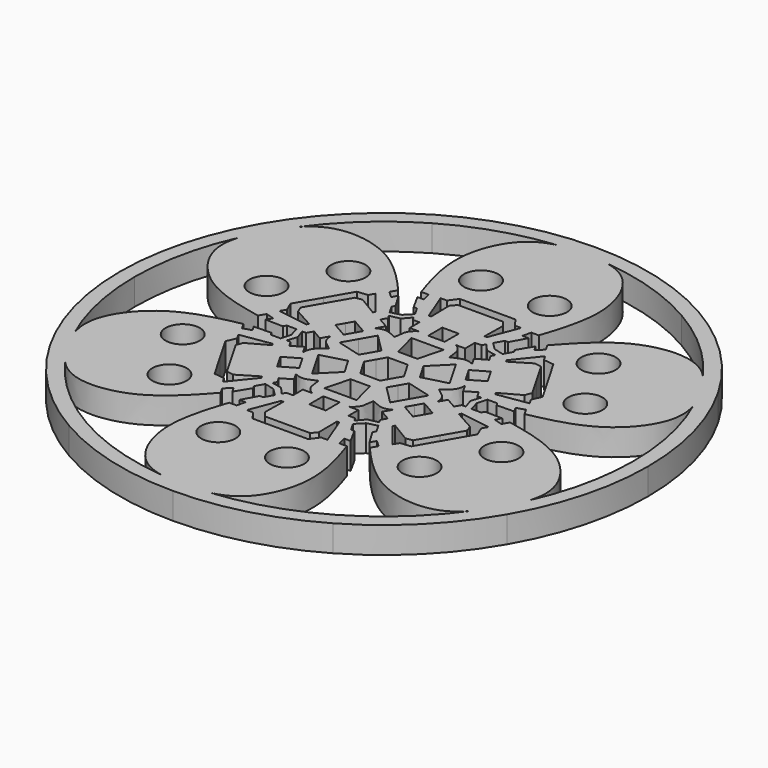
from build123d import *

# Parameters (mm, degrees)
F0_R     = 3.25
F1_DEPTH = 5


with BuildPart() as f1:
    # F0 (on Top) → F1 (new body)
    with BuildSketch(Plane.XY):
        with BuildLine():
            Line((-2.8284731594, 1.63301974), (-1.8856487729, 3.2660394799))
            Line((-1.8856487729, 3.2660394799), (-5.1945881986, 8.9972906844))
            add(Edge.make_bspline(
                [(-9.1760157715, 9.3916558278), (-8.3909486017, 9.7959865179), (-7.2136640018, 9.9123263657), (-6.7346666693, 9.6241857228), (-5.1945881986, 8.9972906844)],
                knots=[0, 0, 0, 0, 0.4623830177, 1, 1, 1, 1], degree=3))
            Line((-9.1760157715, 9.3916558278), (-8.322397281, 10.8701664236))
            Line((-8.322397281, 10.8701664236), (-10.3343345898, 12.0317589705))
            Line((-10.3343345898, 12.0317589705), (-9.7088618412, 13.1151095499))
            Line((-9.7088618412, 13.1151095499), (-10.0906916149, 13.7764581178))
            Line((-10.0906916149, 13.7764581178), (-8.1764468923, 14.1620214428))
            Line((-8.1764468923, 14.1620214428), (-8.7787605006, 15.2052592144))
            Line((-8.7787605006, 15.2052592144), (-10.6856256453, 14.7072889701))
            Line((-10.6856256453, 14.7072889701), (-11.611989412, 16.3117980803))
            Line((-11.611989412, 16.3117980803), (-11.2927966184, 16.8646562161))
            Line((-11.2927966184, 16.8646562161), (-12.9927846127, 19.6728621478))
            Line((-12.9927846127, 19.6728621478), (-13.5853280514, 18.6465468062))
            Line((-13.5853280514, 18.6465468062), (-14.8184367556, 19.7962224051))
            Line((-14.8184367556, 19.7962224051), (-14.1167527165, 21.0115748116))
            add(Edge.make_bspline(
                [(-38.372478876, 27.5701897873), (-37.0601706392, 29.0091253501), (-33.0553443053, 31.6879255757), (-22.5349836575, 30.2353247116), (-16.853957635, 24.1084227897), (-14.1167527165, 21.0115748116)],
                knots=[0.1329530314, 0.1329530314, 0.1329530314, 0.1329530314, 0.3172319255, 0.6444415671, 1, 1, 1, 1], degree=3))
            ThreePointArc((-38.372478876, 27.5701897873), (-39.6951325905, 25.6292596191), (-40.9197003288, 23.625))
            Line((-40.9197003288, 23.625), (-21.2544101512, 12.2712394223))
            Line((-21.2544101512, 12.2712394223), (-18.6194448022, 16.8351332829))
            Line((-18.6194448022, 16.8351332829), (-16.651455194, 17.0546335784))
            Line((-16.651455194, 17.0546335784), (-16.0579272707, 18.0826540974))
            Line((-16.0579272707, 18.0826540974), (-12.3928001012, 13.5297433629))
            Line((-12.3928001012, 13.5297433629), (-12.6234894014, 13.1301777742))
            Line((-12.6234894014, 13.1301777742), (-16.3265375233, 15.353790722))
            Line((-16.3265375233, 15.353790722), (-17.6351973736, 15.1412690684))
            Line((-17.6351973736, 15.1412690684), (-19.7827598596, 11.4215817302))
            Line((-19.7827598596, 11.4215817302), (-13.6402987642, 7.8752301633))
            Line((-13.6402987642, 7.8752301633), (-12.8586807055, 9.2290323531))
            Line((-12.8586807055, 9.2290323531), (-9.9832213791, 7.5688851369))
            Line((-9.9832213791, 7.5688851369), (-10.7648394377, 6.2150829472))
            Line((-10.7648394377, 6.2150829472), (-8.9216007261, 5.1508885808))
            Line((-8.9216007261, 5.1508885808), (-7.3966080897, 7.7922533083))
            Line((-7.3966080897, 7.7922533083), (-3.9729260116, 4.3778470382))
            Line((-3.9729260116, 4.3778470382), (-4.8753578831, 2.8147891862))
            Line((-4.8753578831, 2.8147891862), (-2.8284731594, 1.63301974))
        make_face()
        with Locations((-23.6899121028, 21.1874920874)):
            Circle(F0_R, mode=Mode.SUBTRACT)
        with BuildLine():
            Line((-3.7712975458, 0), (-2.8284731594, 1.63301974))
            Line((-2.8284731594, 1.63301974), (-4.8753578831, 2.8147891862))
            Line((-4.8753578831, 2.8147891862), (-5.7777897547, 1.2517313343))
            Line((-5.7777897547, 1.2517313343), (-10.4465933625, 2.5095238534))
            Line((-10.4465933625, 2.5095238534), (-8.9216007261, 5.1508885808))
            Line((-8.9216007261, 5.1508885808), (-10.7648394377, 6.2150829472))
            Line((-10.7648394377, 6.2150829472), (-11.5464574964, 4.8612807574))
            Line((-11.5464574964, 4.8612807574), (-14.4219168229, 6.5214279736))
            Line((-14.4219168229, 6.5214279736), (-13.6402987642, 7.8752301633))
            Line((-13.6402987642, 7.8752301633), (-19.7827598596, 11.4215817302))
            Line((-19.7827598596, 11.4215817302), (-21.9303223456, 7.7018943921))
            Line((-21.9303223456, 7.7018943921), (-21.4600415713, 6.46230089))
            Line((-21.4600415713, 6.46230089), (-17.6828122093, 4.3671736189))
            Line((-17.6828122093, 4.3671736189), (-17.9135015096, 3.9676080302))
            Line((-17.9135015096, 3.9676080302), (-23.6890014515, 4.8652458998))
            Line((-23.6890014515, 4.8652458998), (-23.0954735282, 5.8932664188))
            Line((-23.0954735282, 5.8932664188), (-23.8893755002, 7.7073455616))
            Line((-23.8893755002, 7.7073455616), (-21.2544101512, 12.2712394223))
            Line((-21.2544101512, 12.2712394223), (-40.9197003288, 23.625))
            ThreePointArc((-40.9197003288, 23.625), (-42.0431562056, 21.5623634204), (-43.062724181, 19.4464466192))
            add(Edge.make_bspline(
                [(-43.062724181, 19.4464466192), (-43.6527248144, 17.590486567), (-43.9702206944, 12.7828051114), (-37.4520511206, 4.3982059654), (-29.3054853985, 2.5417440713), (-25.2549339187, 1.7196790657)],
                knots=[0.1329530314, 0.1329530314, 0.1329530314, 0.1329530314, 0.3172319255, 0.6444415671, 1, 1, 1, 1], degree=3))
            Line((-25.2549339187, 1.7196790657), (-24.5532498796, 2.9350314722))
            Line((-24.5532498796, 2.9350314722), (-22.9410472527, 2.4419658082))
            Line((-22.9410472527, 2.4419658082), (-23.5335906915, 1.4156504666))
            Line((-23.5335906915, 1.4156504666), (-20.2516190185, 1.3475206433))
            Line((-20.2516190185, 1.3475206433), (-19.9324262249, 1.9003787791))
            Line((-19.9324262249, 1.9003787791), (-18.0796986916, 1.9003787791))
            Line((-18.0796986916, 1.9003787791), (-17.5575210011, 0))
            Line((-17.5575210011, 0), (-16.3528937846, 0))
            Line((-16.3528937846, 0), (-16.9761085117, 1.8505662214))
            Line((-16.9761085117, 1.8505662214), (-16.2124489642, 1.8505662214))
            Line((-16.2124489642, 1.8505662214), (-15.5869762155, 2.9339168008))
            Line((-15.5869762155, 2.9339168008), (-13.5750389067, 1.7723242539))
            Line((-13.5750389067, 1.7723242539), (-12.7214204162, 3.2508348498))
            add(Edge.make_bspline(
                [(-12.7214204162, 3.2508348498), (-12.6790474805, 2.368781392), (-12.1911584442, 1.291053097), (-11.7021226614, 1.0202995603), (-10.3891763972, 0)],
                knots=[0, 0, 0, 0, 0.4623830177, 1, 1, 1, 1], degree=3))
            Line((-10.3891763972, 0), (-3.7712975458, 0))
        make_face()
        with Locations((-30.1938624416, 9.9223196507)):
            Circle(F0_R, mode=Mode.SUBTRACT)
        with BuildLine():
            Line((-50, 0), (-47.25, 0))
            ThreePointArc((-47.25, 0), (-46.1913207083, 9.9460741614), (-43.062724181, 19.4464466192))
            add(Edge.make_bspline(
                [(-41.0672978425, 23.7102154642), (-41.963809358, 22.1889803499), (-42.637052141, 20.785479591), (-43.062724181, 19.4464466192)],
                knots=[0, 0, 0, 0, 0.1329530314, 0.1329530314, 0.1329530314, 0.1329530314], degree=3))
            Line((-41.0672978425, 23.7102154642), (-43.3012701892, 25))
            ThreePointArc((-43.3012701892, 25), (-48.2962913145, 12.9409522551), (-50, 0))
        make_face()
        with BuildLine():
            add(Edge.make_bspline(
                [(-41.0672978425, 23.7102154642), (-41.963809358, 22.1889803499), (-42.637052141, 20.785479591), (-43.062724181, 19.4464466192)],
                knots=[0, 0, 0, 0, 0.1329530314, 0.1329530314, 0.1329530314, 0.1329530314], degree=3))
            ThreePointArc((-43.062724181, 19.4464466192), (-42.0431562056, 21.5623634204), (-40.9197003288, 23.625))
            Line((-40.9197003288, 23.625), (-41.0672978425, 23.7102154642))
        make_face()
        with BuildLine():
            ThreePointArc((-40.9197003288, 23.625), (-39.6951325905, 25.6292596191), (-38.372478876, 27.5701897873))
            add(Edge.make_bspline(
                [(-41.0672978425, 23.7102154642), (-40.198125346, 25.2472347687), (-39.3192794261, 26.5320305011), (-38.372478876, 27.5701897873)],
                knots=[0, 0, 0, 0, 0.1329530314, 0.1329530314, 0.1329530314, 0.1329530314], degree=3))
            Line((-41.0672978425, 23.7102154642), (-40.9197003288, 23.625))
        make_face()
        with BuildLine():
            ThreePointArc((-38.372478876, 27.5701897873), (-31.7092132458, 35.029820087), (-23.625, 40.9197003288))
            Line((-23.625, 40.9197003288), (-25, 43.3012701892))
            ThreePointArc((-25, 43.3012701892), (-35.3553390593, 35.3553390593), (-43.3012701892, 25))
            Line((-43.3012701892, 25), (-41.0672978425, 23.7102154642))
            add(Edge.make_bspline(
                [(-41.0672978425, 23.7102154642), (-40.198125346, 25.2472347687), (-39.3192794261, 26.5320305011), (-38.372478876, 27.5701897873)],
                knots=[0, 0, 0, 0, 0.1329530314, 0.1329530314, 0.1329530314, 0.1329530314], degree=3))
        make_face()
        with BuildLine():
            Line((-1.8856487729, 3.2660394799), (0, 3.2660394799))
            Line((0, 3.2660394799), (0, 5.6295783725))
            Line((0, 5.6295783725), (-1.8048637432, 5.6295783725))
            Line((-1.8048637432, 5.6295783725), (-3.0499852728, 10.3017771617))
            Line((-3.0499852728, 10.3017771617), (0, 10.3017771617))
            Line((0, 10.3017771617), (0, 12.4301658943))
            Line((0, 12.4301658943), (-1.5632361174, 12.4301658943))
            Line((-1.5632361174, 12.4301658943), (-1.5632361174, 15.7504603267))
            Line((-1.5632361174, 15.7504603267), (0, 15.7504603267))
            Line((0, 15.7504603267), (0, 22.8431634605))
            Line((0, 22.8431634605), (-4.295124972, 22.8431634605))
            Line((-4.295124972, 22.8431634605), (-5.133504048, 21.816091612))
            Line((-5.133504048, 21.816091612), (-5.0593228079, 17.4973513931))
            Line((-5.0593228079, 17.4973513931), (-5.5207014084, 17.4973513931))
            Line((-5.5207014084, 17.4973513931), (-7.6310741809, 22.9478999972))
            Line((-7.6310741809, 22.9478999972), (-6.4440183342, 22.9478999972))
            Line((-6.4440183342, 22.9478999972), (-5.269930698, 24.5424788445))
            Line((-5.269930698, 24.5424788445), (0, 24.5424788445))
            Line((0, 24.5424788445), (0, 47.25))
            ThreePointArc((0, 47.25), (-2.3480236151, 47.1916230395), (-4.690245305, 47.0166364065))
            add(Edge.make_bspline(
                [(-4.690245305, 47.0166364065), (-6.5925541752, 46.5996119172), (-10.9148763891, 44.470730687), (-14.9170674632, 34.633530677), (-12.4515277636, 26.650166861), (-11.1381812021, 22.7312538773)],
                knots=[0.1329530314, 0.1329530314, 0.1329530314, 0.1329530314, 0.3172319255, 0.6444415671, 1, 1, 1, 1], degree=3))
            Line((-11.1381812021, 22.7312538773), (-9.7348131239, 22.7312538773))
            Line((-9.7348131239, 22.7312538773), (-9.3557192013, 21.0885126144))
            Line((-9.3557192013, 21.0885126144), (-10.5408060788, 21.0885126144))
            Line((-10.5408060788, 21.0885126144), (-8.9588224, 18.2121768594))
            Line((-8.9588224, 18.2121768594), (-8.3204368129, 18.2121768594))
            Line((-8.3204368129, 18.2121768594), (-7.3940730463, 16.6076677492))
            Line((-7.3940730463, 16.6076677492), (-8.7787605006, 15.2052592144))
            Line((-8.7787605006, 15.2052592144), (-8.1764468923, 14.1620214428))
            Line((-8.1764468923, 14.1620214428), (-6.8854168967, 15.6270243392))
            Line((-6.8854168967, 15.6270243392), (-6.503587123, 14.9656757712))
            Line((-6.503587123, 14.9656757712), (-5.2526416257, 14.9656757712))
            Line((-5.2526416257, 14.9656757712), (-5.2526416257, 12.6424906775))
            Line((-5.2526416257, 12.6424906775), (-3.5454046447, 12.6424906775))
            add(Edge.make_bspline(
                [(-3.5454046447, 12.6424906775), (-4.2880988788, 12.1647679098), (-4.9774944424, 11.2033794628), (-4.967455992, 10.6444852831), (-5.1945881986, 8.9972906844)],
                knots=[0, 0, 0, 0, 0.4623830177, 1, 1, 1, 1], degree=3))
            Line((-5.1945881986, 8.9972906844), (-1.8856487729, 3.2660394799))
        make_face()
        with Locations((-6.5039503388, 31.1098117381)):
            Circle(F0_R, mode=Mode.SUBTRACT)
        with BuildLine():
            Line((0, 5.6295783725), (0, 3.2660394799))
            Line((0, 3.2660394799), (1.8856487729, 3.2660394799))
            Line((1.8856487729, 3.2660394799), (5.1945881986, 8.9972906844))
            add(Edge.make_bspline(
                [(3.5454046447, 12.6424906775), (4.2880988788, 12.1647679098), (4.9774944424, 11.2033794628), (4.967455992, 10.6444852831), (5.1945881986, 8.9972906844)],
                knots=[0, 0, 0, 0, 0.4623830177, 1, 1, 1, 1], degree=3))
            Line((3.5454046447, 12.6424906775), (5.2526416257, 12.6424906775))
            Line((5.2526416257, 12.6424906775), (5.2526416257, 14.9656757712))
            Line((5.2526416257, 14.9656757712), (6.503587123, 14.9656757712))
            Line((6.503587123, 14.9656757712), (6.8854168967, 15.6270243392))
            Line((6.8854168967, 15.6270243392), (8.1764468923, 14.1620214428))
            Line((8.1764468923, 14.1620214428), (8.7787605006, 15.2052592144))
            Line((8.7787605006, 15.2052592144), (7.3940730463, 16.6076677492))
            Line((7.3940730463, 16.6076677492), (8.3204368129, 18.2121768594))
            Line((8.3204368129, 18.2121768594), (8.9588224, 18.2121768594))
            Line((8.9588224, 18.2121768594), (10.5408060788, 21.0885126144))
            Line((10.5408060788, 21.0885126144), (9.3557192013, 21.0885126144))
            Line((9.3557192013, 21.0885126144), (9.7348131239, 22.7312538773))
            Line((9.7348131239, 22.7312538773), (11.1381812021, 22.7312538773))
            add(Edge.make_bspline(
                [(4.690245305, 47.0166364065), (6.5925541752, 46.5996119172), (10.9148763891, 44.470730687), (14.9170674632, 34.633530677), (12.4515277636, 26.650166861), (11.1381812021, 22.7312538773)],
                knots=[0.1329530314, 0.1329530314, 0.1329530314, 0.1329530314, 0.3172319255, 0.6444415671, 1, 1, 1, 1], degree=3))
            ThreePointArc((4.690245305, 47.0166364065), (2.3480236151, 47.1916230395), (0, 47.25))
            Line((0, 47.25), (0, 24.5424788445))
            Line((0, 24.5424788445), (5.269930698, 24.5424788445))
            Line((5.269930698, 24.5424788445), (6.4440183342, 22.9478999972))
            Line((6.4440183342, 22.9478999972), (7.6310741809, 22.9478999972))
            Line((7.6310741809, 22.9478999972), (5.5207014084, 17.4973513931))
            Line((5.5207014084, 17.4973513931), (5.0593228079, 17.4973513931))
            Line((5.0593228079, 17.4973513931), (5.133504048, 21.816091612))
            Line((5.133504048, 21.816091612), (4.295124972, 22.8431634605))
            Line((4.295124972, 22.8431634605), (0, 22.8431634605))
            Line((0, 22.8431634605), (0, 15.7504603267))
            Line((0, 15.7504603267), (1.5632361174, 15.7504603267))
            Line((1.5632361174, 15.7504603267), (1.5632361174, 12.4301658943))
            Line((1.5632361174, 12.4301658943), (0, 12.4301658943))
            Line((0, 12.4301658943), (0, 10.3017771617))
            Line((0, 10.3017771617), (3.0499852728, 10.3017771617))
            Line((3.0499852728, 10.3017771617), (1.8048637432, 5.6295783725))
            Line((1.8048637432, 5.6295783725), (0, 5.6295783725))
        make_face()
        with Locations((6.5039503388, 31.1098117381)):
            Circle(F0_R, mode=Mode.SUBTRACT)
        with BuildLine():
            Line((1.8856487729, 3.2660394799), (2.8284731594, 1.63301974))
            Line((2.8284731594, 1.63301974), (4.8753578831, 2.8147891862))
            Line((4.8753578831, 2.8147891862), (3.9729260116, 4.3778470382))
            Line((3.9729260116, 4.3778470382), (7.3966080897, 7.7922533083))
            Line((7.3966080897, 7.7922533083), (8.9216007261, 5.1508885808))
            Line((8.9216007261, 5.1508885808), (10.7648394377, 6.2150829472))
            Line((10.7648394377, 6.2150829472), (9.9832213791, 7.5688851369))
            Line((9.9832213791, 7.5688851369), (12.8586807055, 9.2290323531))
            Line((12.8586807055, 9.2290323531), (13.6402987642, 7.8752301633))
            Line((13.6402987642, 7.8752301633), (19.7827598596, 11.4215817302))
            Line((19.7827598596, 11.4215817302), (17.6351973736, 15.1412690684))
            Line((17.6351973736, 15.1412690684), (16.3265375233, 15.353790722))
            Line((16.3265375233, 15.353790722), (12.6234894014, 13.1301777742))
            Line((12.6234894014, 13.1301777742), (12.3928001012, 13.5297433629))
            Line((12.3928001012, 13.5297433629), (16.0579272707, 18.0826540974))
            Line((16.0579272707, 18.0826540974), (16.651455194, 17.0546335784))
            Line((16.651455194, 17.0546335784), (18.6194448022, 16.8351332829))
            Line((18.6194448022, 16.8351332829), (21.2544101512, 12.2712394223))
            Line((21.2544101512, 12.2712394223), (40.9197003288, 23.625))
            ThreePointArc((40.9197003288, 23.625), (39.6951325905, 25.6292596191), (38.372478876, 27.5701897873))
            add(Edge.make_bspline(
                [(38.372478876, 27.5701897873), (37.0601706392, 29.0091253501), (33.0553443053, 31.6879255757), (22.5349836575, 30.2353247116), (16.853957635, 24.1084227897), (14.1167527165, 21.0115748116)],
                knots=[0.1329530314, 0.1329530314, 0.1329530314, 0.1329530314, 0.3172319255, 0.6444415671, 1, 1, 1, 1], degree=3))
            Line((14.1167527165, 21.0115748116), (14.8184367556, 19.7962224051))
            Line((14.8184367556, 19.7962224051), (13.5853280514, 18.6465468062))
            Line((13.5853280514, 18.6465468062), (12.9927846127, 19.6728621478))
            Line((12.9927846127, 19.6728621478), (11.2927966184, 16.8646562161))
            Line((11.2927966184, 16.8646562161), (11.611989412, 16.3117980803))
            Line((11.611989412, 16.3117980803), (10.6856256453, 14.7072889701))
            Line((10.6856256453, 14.7072889701), (8.7787605006, 15.2052592144))
            Line((8.7787605006, 15.2052592144), (8.1764468923, 14.1620214428))
            Line((8.1764468923, 14.1620214428), (10.0906916149, 13.7764581178))
            Line((10.0906916149, 13.7764581178), (9.7088618412, 13.1151095499))
            Line((9.7088618412, 13.1151095499), (10.3343345898, 12.0317589705))
            Line((10.3343345898, 12.0317589705), (8.322397281, 10.8701664236))
            Line((8.322397281, 10.8701664236), (9.1760157715, 9.3916558278))
            add(Edge.make_bspline(
                [(9.1760157715, 9.3916558278), (8.3909486017, 9.7959865179), (7.2136640018, 9.9123263657), (6.7346666693, 9.6241857228), (5.1945881986, 8.9972906844)],
                knots=[0, 0, 0, 0, 0.4623830177, 1, 1, 1, 1], degree=3))
            Line((5.1945881986, 8.9972906844), (1.8856487729, 3.2660394799))
        make_face()
        with Locations((23.6899121028, 21.1874920874)):
            Circle(F0_R, mode=Mode.SUBTRACT)
        with BuildLine():
            Line((2.8284731594, 1.63301974), (3.7712975458, 0))
            Line((3.7712975458, 0), (10.3891763972, 0))
            add(Edge.make_bspline(
                [(12.7214204162, 3.2508348498), (12.6790474805, 2.368781392), (12.1911584442, 1.291053097), (11.7021226614, 1.0202995603), (10.3891763972, 0)],
                knots=[0, 0, 0, 0, 0.4623830177, 1, 1, 1, 1], degree=3))
            Line((12.7214204162, 3.2508348498), (13.5750389067, 1.7723242539))
            Line((13.5750389067, 1.7723242539), (15.5869762155, 2.9339168008))
            Line((15.5869762155, 2.9339168008), (16.2124489642, 1.8505662214))
            Line((16.2124489642, 1.8505662214), (16.9761085117, 1.8505662214))
            Line((16.9761085117, 1.8505662214), (16.3528937846, 0))
            Line((16.3528937846, 0), (17.5575210011, 0))
            Line((17.5575210011, 0), (18.0796986916, 1.9003787791))
            Line((18.0796986916, 1.9003787791), (19.9324262249, 1.9003787791))
            Line((19.9324262249, 1.9003787791), (20.2516190185, 1.3475206433))
            Line((20.2516190185, 1.3475206433), (23.5335906915, 1.4156504666))
            Line((23.5335906915, 1.4156504666), (22.9410472527, 2.4419658082))
            Line((22.9410472527, 2.4419658082), (24.5532498796, 2.9350314722))
            Line((24.5532498796, 2.9350314722), (25.2549339187, 1.7196790657))
            add(Edge.make_bspline(
                [(43.062724181, 19.4464466192), (43.6527248144, 17.590486567), (43.9702206944, 12.7828051114), (37.4520511206, 4.3982059654), (29.3054853985, 2.5417440713), (25.2549339187, 1.7196790657)],
                knots=[0.1329530314, 0.1329530314, 0.1329530314, 0.1329530314, 0.3172319255, 0.6444415671, 1, 1, 1, 1], degree=3))
            ThreePointArc((43.062724181, 19.4464466192), (42.0431562056, 21.5623634204), (40.9197003288, 23.625))
            Line((40.9197003288, 23.625), (21.2544101512, 12.2712394223))
            Line((21.2544101512, 12.2712394223), (23.8893755002, 7.7073455616))
            Line((23.8893755002, 7.7073455616), (23.0954735282, 5.8932664188))
            Line((23.0954735282, 5.8932664188), (23.6890014515, 4.8652458998))
            Line((23.6890014515, 4.8652458998), (17.9135015096, 3.9676080302))
            Line((17.9135015096, 3.9676080302), (17.6828122093, 4.3671736189))
            Line((17.6828122093, 4.3671736189), (21.4600415713, 6.46230089))
            Line((21.4600415713, 6.46230089), (21.9303223456, 7.7018943921))
            Line((21.9303223456, 7.7018943921), (19.7827598596, 11.4215817302))
            Line((19.7827598596, 11.4215817302), (13.6402987642, 7.8752301633))
            Line((13.6402987642, 7.8752301633), (14.4219168229, 6.5214279736))
            Line((14.4219168229, 6.5214279736), (11.5464574964, 4.8612807574))
            Line((11.5464574964, 4.8612807574), (10.7648394377, 6.2150829472))
            Line((10.7648394377, 6.2150829472), (8.9216007261, 5.1508885808))
            Line((8.9216007261, 5.1508885808), (10.4465933625, 2.5095238534))
            Line((10.4465933625, 2.5095238534), (5.7777897547, 1.2517313343))
            Line((5.7777897547, 1.2517313343), (4.8753578831, 2.8147891862))
            Line((4.8753578831, 2.8147891862), (2.8284731594, 1.63301974))
        make_face()
        with Locations((30.1938624416, 9.9223196507)):
            Circle(F0_R, mode=Mode.SUBTRACT)
        with BuildLine():
            Line((3.7712975458, 0), (2.8284731594, -1.63301974))
            Line((2.8284731594, -1.63301974), (4.8753578831, -2.8147891862))
            Line((4.8753578831, -2.8147891862), (5.7777897547, -1.2517313343))
            Line((5.7777897547, -1.2517313343), (10.4465933625, -2.5095238534))
            Line((10.4465933625, -2.5095238534), (8.9216007261, -5.1508885808))
            Line((8.9216007261, -5.1508885808), (10.7648394377, -6.2150829472))
            Line((10.7648394377, -6.2150829472), (11.5464574964, -4.8612807574))
            Line((11.5464574964, -4.8612807574), (14.4219168229, -6.5214279736))
            Line((14.4219168229, -6.5214279736), (13.6402987642, -7.8752301633))
            Line((13.6402987642, -7.8752301633), (19.7827598596, -11.4215817302))
            Line((19.7827598596, -11.4215817302), (21.9303223456, -7.7018943921))
            Line((21.9303223456, -7.7018943921), (21.4600415713, -6.46230089))
            Line((21.4600415713, -6.46230089), (17.6828122093, -4.3671736189))
            Line((17.6828122093, -4.3671736189), (17.9135015096, -3.9676080302))
            Line((17.9135015096, -3.9676080302), (23.6890014515, -4.8652458998))
            Line((23.6890014515, -4.8652458998), (23.0954735282, -5.8932664188))
            Line((23.0954735282, -5.8932664188), (23.8893755002, -7.7073455616))
            Line((23.8893755002, -7.7073455616), (21.2544101512, -12.2712394223))
            Line((21.2544101512, -12.2712394223), (40.9197003288, -23.625))
            ThreePointArc((40.9197003288, -23.625), (42.0431562056, -21.5623634204), (43.062724181, -19.4464466192))
            add(Edge.make_bspline(
                [(43.062724181, -19.4464466192), (43.6527248144, -17.590486567), (43.9702206944, -12.7828051114), (37.4520511206, -4.3982059654), (29.3054853985, -2.5417440713), (25.2549339187, -1.7196790657)],
                knots=[0.1329530314, 0.1329530314, 0.1329530314, 0.1329530314, 0.3172319255, 0.6444415671, 1, 1, 1, 1], degree=3))
            Line((25.2549339187, -1.7196790657), (24.5532498796, -2.9350314722))
            Line((24.5532498796, -2.9350314722), (22.9410472527, -2.4419658082))
            Line((22.9410472527, -2.4419658082), (23.5335906915, -1.4156504666))
            Line((23.5335906915, -1.4156504666), (20.2516190185, -1.3475206433))
            Line((20.2516190185, -1.3475206433), (19.9324262249, -1.9003787791))
            Line((19.9324262249, -1.9003787791), (18.0796986916, -1.9003787791))
            Line((18.0796986916, -1.9003787791), (17.5575210011, 0))
            Line((17.5575210011, 0), (16.3528937846, 0))
            Line((16.3528937846, 0), (16.9761085117, -1.8505662214))
            Line((16.9761085117, -1.8505662214), (16.2124489642, -1.8505662214))
            Line((16.2124489642, -1.8505662214), (15.5869762155, -2.9339168008))
            Line((15.5869762155, -2.9339168008), (13.5750389067, -1.7723242539))
            Line((13.5750389067, -1.7723242539), (12.7214204162, -3.2508348498))
            add(Edge.make_bspline(
                [(12.7214204162, -3.2508348498), (12.6790474805, -2.368781392), (12.1911584442, -1.291053097), (11.7021226614, -1.0202995603), (10.3891763972, 0)],
                knots=[0, 0, 0, 0, 0.4623830177, 1, 1, 1, 1], degree=3))
            Line((10.3891763972, 0), (3.7712975458, 0))
        make_face()
        with Locations((30.1938624416, -9.9223196507)):
            Circle(F0_R, mode=Mode.SUBTRACT)
        with BuildLine():
            Line((2.8284731594, -1.63301974), (1.8856487729, -3.2660394799))
            Line((1.8856487729, -3.2660394799), (5.1945881986, -8.9972906844))
            add(Edge.make_bspline(
                [(9.1760157715, -9.3916558278), (8.3909486017, -9.7959865179), (7.2136640018, -9.9123263657), (6.7346666693, -9.6241857228), (5.1945881986, -8.9972906844)],
                knots=[0, 0, 0, 0, 0.4623830177, 1, 1, 1, 1], degree=3))
            Line((9.1760157715, -9.3916558278), (8.322397281, -10.8701664236))
            Line((8.322397281, -10.8701664236), (10.3343345898, -12.0317589705))
            Line((10.3343345898, -12.0317589705), (9.7088618412, -13.1151095499))
            Line((9.7088618412, -13.1151095499), (10.0906916149, -13.7764581178))
            Line((10.0906916149, -13.7764581178), (8.1764468923, -14.1620214428))
            Line((8.1764468923, -14.1620214428), (8.7787605006, -15.2052592144))
            Line((8.7787605006, -15.2052592144), (10.6856256453, -14.7072889701))
            Line((10.6856256453, -14.7072889701), (11.611989412, -16.3117980803))
            Line((11.611989412, -16.3117980803), (11.2927966184, -16.8646562161))
            Line((11.2927966184, -16.8646562161), (12.9927846127, -19.6728621478))
            Line((12.9927846127, -19.6728621478), (13.5853280514, -18.6465468062))
            Line((13.5853280514, -18.6465468062), (14.8184367556, -19.7962224051))
            Line((14.8184367556, -19.7962224051), (14.1167527165, -21.0115748116))
            add(Edge.make_bspline(
                [(38.372478876, -27.5701897873), (37.0601706392, -29.0091253501), (33.0553443053, -31.6879255757), (22.5349836575, -30.2353247116), (16.853957635, -24.1084227897), (14.1167527165, -21.0115748116)],
                knots=[0.1329530314, 0.1329530314, 0.1329530314, 0.1329530314, 0.3172319255, 0.6444415671, 1, 1, 1, 1], degree=3))
            ThreePointArc((38.372478876, -27.5701897873), (39.6951325905, -25.6292596191), (40.9197003288, -23.625))
            Line((40.9197003288, -23.625), (21.2544101512, -12.2712394223))
            Line((21.2544101512, -12.2712394223), (18.6194448022, -16.8351332829))
            Line((18.6194448022, -16.8351332829), (16.651455194, -17.0546335784))
            Line((16.651455194, -17.0546335784), (16.0579272707, -18.0826540974))
            Line((16.0579272707, -18.0826540974), (12.3928001012, -13.5297433629))
            Line((12.3928001012, -13.5297433629), (12.6234894014, -13.1301777742))
            Line((12.6234894014, -13.1301777742), (16.3265375233, -15.353790722))
            Line((16.3265375233, -15.353790722), (17.6351973736, -15.1412690684))
            Line((17.6351973736, -15.1412690684), (19.7827598596, -11.4215817302))
            Line((19.7827598596, -11.4215817302), (13.6402987642, -7.8752301633))
            Line((13.6402987642, -7.8752301633), (12.8586807055, -9.2290323531))
            Line((12.8586807055, -9.2290323531), (9.9832213791, -7.5688851369))
            Line((9.9832213791, -7.5688851369), (10.7648394377, -6.2150829472))
            Line((10.7648394377, -6.2150829472), (8.9216007261, -5.1508885808))
            Line((8.9216007261, -5.1508885808), (7.3966080897, -7.7922533083))
            Line((7.3966080897, -7.7922533083), (3.9729260116, -4.3778470382))
            Line((3.9729260116, -4.3778470382), (4.8753578831, -2.8147891862))
            Line((4.8753578831, -2.8147891862), (2.8284731594, -1.63301974))
        make_face()
        with Locations((23.6899121028, -21.1874920874)):
            Circle(F0_R, mode=Mode.SUBTRACT)
        with BuildLine():
            Line((1.8856487729, -3.2660394799), (0, -3.2660394799))
            Line((0, -3.2660394799), (0, -5.6295783725))
            Line((0, -5.6295783725), (1.8048637432, -5.6295783725))
            Line((1.8048637432, -5.6295783725), (3.0499852728, -10.3017771617))
            Line((3.0499852728, -10.3017771617), (0, -10.3017771617))
            Line((0, -10.3017771617), (0, -12.4301658943))
            Line((0, -12.4301658943), (1.5632361174, -12.4301658943))
            Line((1.5632361174, -12.4301658943), (1.5632361174, -15.7504603267))
            Line((1.5632361174, -15.7504603267), (0, -15.7504603267))
            Line((0, -15.7504603267), (0, -22.8431634605))
            Line((0, -22.8431634605), (4.295124972, -22.8431634605))
            Line((4.295124972, -22.8431634605), (5.133504048, -21.816091612))
            Line((5.133504048, -21.816091612), (5.0593228079, -17.4973513931))
            Line((5.0593228079, -17.4973513931), (5.5207014084, -17.4973513931))
            Line((5.5207014084, -17.4973513931), (7.6310741809, -22.9478999972))
            Line((7.6310741809, -22.9478999972), (6.4440183342, -22.9478999972))
            Line((6.4440183342, -22.9478999972), (5.269930698, -24.5424788445))
            Line((5.269930698, -24.5424788445), (0, -24.5424788445))
            Line((0, -24.5424788445), (0, -47.25))
            ThreePointArc((0, -47.25), (2.3480236151, -47.1916230395), (4.690245305, -47.0166364065))
            add(Edge.make_bspline(
                [(4.690245305, -47.0166364065), (6.5925541752, -46.5996119172), (10.9148763891, -44.470730687), (14.9170674632, -34.633530677), (12.4515277636, -26.650166861), (11.1381812021, -22.7312538773)],
                knots=[0.1329530314, 0.1329530314, 0.1329530314, 0.1329530314, 0.3172319255, 0.6444415671, 1, 1, 1, 1], degree=3))
            Line((11.1381812021, -22.7312538773), (9.7348131239, -22.7312538773))
            Line((9.7348131239, -22.7312538773), (9.3557192013, -21.0885126144))
            Line((9.3557192013, -21.0885126144), (10.5408060788, -21.0885126144))
            Line((10.5408060788, -21.0885126144), (8.9588224, -18.2121768594))
            Line((8.9588224, -18.2121768594), (8.3204368129, -18.2121768594))
            Line((8.3204368129, -18.2121768594), (7.3940730463, -16.6076677492))
            Line((7.3940730463, -16.6076677492), (8.7787605006, -15.2052592144))
            Line((8.7787605006, -15.2052592144), (8.1764468923, -14.1620214428))
            Line((8.1764468923, -14.1620214428), (6.8854168967, -15.6270243392))
            Line((6.8854168967, -15.6270243392), (6.503587123, -14.9656757712))
            Line((6.503587123, -14.9656757712), (5.2526416257, -14.9656757712))
            Line((5.2526416257, -14.9656757712), (5.2526416257, -12.6424906775))
            Line((5.2526416257, -12.6424906775), (3.5454046447, -12.6424906775))
            add(Edge.make_bspline(
                [(3.5454046447, -12.6424906775), (4.2880988788, -12.1647679098), (4.9774944424, -11.2033794628), (4.967455992, -10.6444852831), (5.1945881986, -8.9972906844)],
                knots=[0, 0, 0, 0, 0.4623830177, 1, 1, 1, 1], degree=3))
            Line((5.1945881986, -8.9972906844), (1.8856487729, -3.2660394799))
        make_face()
        with Locations((6.5039503388, -31.1098117381)):
            Circle(F0_R, mode=Mode.SUBTRACT)
        with BuildLine():
            Line((0, -3.2660394799), (-1.8856487729, -3.2660394799))
            Line((-1.8856487729, -3.2660394799), (-5.1945881986, -8.9972906844))
            add(Edge.make_bspline(
                [(-3.5454046447, -12.6424906775), (-4.2880988788, -12.1647679098), (-4.9774944424, -11.2033794628), (-4.967455992, -10.6444852831), (-5.1945881986, -8.9972906844)],
                knots=[0, 0, 0, 0, 0.4623830177, 1, 1, 1, 1], degree=3))
            Line((-3.5454046447, -12.6424906775), (-5.2526416257, -12.6424906775))
            Line((-5.2526416257, -12.6424906775), (-5.2526416257, -14.9656757712))
            Line((-5.2526416257, -14.9656757712), (-6.503587123, -14.9656757712))
            Line((-6.503587123, -14.9656757712), (-6.8854168967, -15.6270243392))
            Line((-6.8854168967, -15.6270243392), (-8.1764468923, -14.1620214428))
            Line((-8.1764468923, -14.1620214428), (-8.7787605006, -15.2052592144))
            Line((-8.7787605006, -15.2052592144), (-7.3940730463, -16.6076677492))
            Line((-7.3940730463, -16.6076677492), (-8.3204368129, -18.2121768594))
            Line((-8.3204368129, -18.2121768594), (-8.9588224, -18.2121768594))
            Line((-8.9588224, -18.2121768594), (-10.5408060788, -21.0885126144))
            Line((-10.5408060788, -21.0885126144), (-9.3557192013, -21.0885126144))
            Line((-9.3557192013, -21.0885126144), (-9.7348131239, -22.7312538773))
            Line((-9.7348131239, -22.7312538773), (-11.1381812021, -22.7312538773))
            add(Edge.make_bspline(
                [(-4.690245305, -47.0166364065), (-6.5925541752, -46.5996119172), (-10.9148763891, -44.470730687), (-14.9170674632, -34.633530677), (-12.4515277636, -26.650166861), (-11.1381812021, -22.7312538773)],
                knots=[0.1329530314, 0.1329530314, 0.1329530314, 0.1329530314, 0.3172319255, 0.6444415671, 1, 1, 1, 1], degree=3))
            ThreePointArc((-4.690245305, -47.0166364065), (-2.3480236151, -47.1916230395), (0, -47.25))
            Line((0, -47.25), (0, -24.5424788445))
            Line((0, -24.5424788445), (-5.269930698, -24.5424788445))
            Line((-5.269930698, -24.5424788445), (-6.4440183342, -22.9478999972))
            Line((-6.4440183342, -22.9478999972), (-7.6310741809, -22.9478999972))
            Line((-7.6310741809, -22.9478999972), (-5.5207014084, -17.4973513931))
            Line((-5.5207014084, -17.4973513931), (-5.0593228079, -17.4973513931))
            Line((-5.0593228079, -17.4973513931), (-5.133504048, -21.816091612))
            Line((-5.133504048, -21.816091612), (-4.295124972, -22.8431634605))
            Line((-4.295124972, -22.8431634605), (0, -22.8431634605))
            Line((0, -22.8431634605), (0, -15.7504603267))
            Line((0, -15.7504603267), (-1.5632361174, -15.7504603267))
            Line((-1.5632361174, -15.7504603267), (-1.5632361174, -12.4301658943))
            Line((-1.5632361174, -12.4301658943), (0, -12.4301658943))
            Line((0, -12.4301658943), (0, -10.3017771617))
            Line((0, -10.3017771617), (-3.0499852728, -10.3017771617))
            Line((-3.0499852728, -10.3017771617), (-1.8048637432, -5.6295783725))
            Line((-1.8048637432, -5.6295783725), (0, -5.6295783725))
            Line((0, -5.6295783725), (0, -3.2660394799))
        make_face()
        with Locations((-6.5039503388, -31.1098117381)):
            Circle(F0_R, mode=Mode.SUBTRACT)
        with BuildLine():
            Line((-1.8856487729, -3.2660394799), (-2.8284731594, -1.63301974))
            Line((-2.8284731594, -1.63301974), (-4.8753578831, -2.8147891862))
            Line((-4.8753578831, -2.8147891862), (-3.9729260116, -4.3778470382))
            Line((-3.9729260116, -4.3778470382), (-7.3966080897, -7.7922533083))
            Line((-7.3966080897, -7.7922533083), (-8.9216007261, -5.1508885808))
            Line((-8.9216007261, -5.1508885808), (-10.7648394377, -6.2150829472))
            Line((-10.7648394377, -6.2150829472), (-9.9832213791, -7.5688851369))
            Line((-9.9832213791, -7.5688851369), (-12.8586807055, -9.2290323531))
            Line((-12.8586807055, -9.2290323531), (-13.6402987642, -7.8752301633))
            Line((-13.6402987642, -7.8752301633), (-19.7827598596, -11.4215817302))
            Line((-19.7827598596, -11.4215817302), (-17.6351973736, -15.1412690684))
            Line((-17.6351973736, -15.1412690684), (-16.3265375233, -15.353790722))
            Line((-16.3265375233, -15.353790722), (-12.6234894014, -13.1301777742))
            Line((-12.6234894014, -13.1301777742), (-12.3928001012, -13.5297433629))
            Line((-12.3928001012, -13.5297433629), (-16.0579272707, -18.0826540974))
            Line((-16.0579272707, -18.0826540974), (-16.651455194, -17.0546335784))
            Line((-16.651455194, -17.0546335784), (-18.6194448022, -16.8351332829))
            Line((-18.6194448022, -16.8351332829), (-21.2544101512, -12.2712394223))
            Line((-21.2544101512, -12.2712394223), (-40.9197003288, -23.625))
            ThreePointArc((-40.9197003288, -23.625), (-39.6951325905, -25.6292596191), (-38.372478876, -27.5701897873))
            add(Edge.make_bspline(
                [(-38.372478876, -27.5701897873), (-37.0601706392, -29.0091253501), (-33.0553443053, -31.6879255757), (-22.5349836575, -30.2353247116), (-16.853957635, -24.1084227897), (-14.1167527165, -21.0115748116)],
                knots=[0.1329530314, 0.1329530314, 0.1329530314, 0.1329530314, 0.3172319255, 0.6444415671, 1, 1, 1, 1], degree=3))
            Line((-14.1167527165, -21.0115748116), (-14.8184367556, -19.7962224051))
            Line((-14.8184367556, -19.7962224051), (-13.5853280514, -18.6465468062))
            Line((-13.5853280514, -18.6465468062), (-12.9927846127, -19.6728621478))
            Line((-12.9927846127, -19.6728621478), (-11.2927966184, -16.8646562161))
            Line((-11.2927966184, -16.8646562161), (-11.611989412, -16.3117980803))
            Line((-11.611989412, -16.3117980803), (-10.6856256453, -14.7072889701))
            Line((-10.6856256453, -14.7072889701), (-8.7787605006, -15.2052592144))
            Line((-8.7787605006, -15.2052592144), (-8.1764468923, -14.1620214428))
            Line((-8.1764468923, -14.1620214428), (-10.0906916149, -13.7764581178))
            Line((-10.0906916149, -13.7764581178), (-9.7088618412, -13.1151095499))
            Line((-9.7088618412, -13.1151095499), (-10.3343345898, -12.0317589705))
            Line((-10.3343345898, -12.0317589705), (-8.322397281, -10.8701664236))
            Line((-8.322397281, -10.8701664236), (-9.1760157715, -9.3916558278))
            add(Edge.make_bspline(
                [(-9.1760157715, -9.3916558278), (-8.3909486017, -9.7959865179), (-7.2136640018, -9.9123263657), (-6.7346666693, -9.6241857228), (-5.1945881986, -8.9972906844)],
                knots=[0, 0, 0, 0, 0.4623830177, 1, 1, 1, 1], degree=3))
            Line((-5.1945881986, -8.9972906844), (-1.8856487729, -3.2660394799))
        make_face()
        with Locations((-23.6899121028, -21.1874920874)):
            Circle(F0_R, mode=Mode.SUBTRACT)
        with BuildLine():
            Line((-2.8284731594, -1.63301974), (-3.7712975458, 0))
            Line((-3.7712975458, 0), (-10.3891763972, 0))
            add(Edge.make_bspline(
                [(-12.7214204162, -3.2508348498), (-12.6790474805, -2.368781392), (-12.1911584442, -1.291053097), (-11.7021226614, -1.0202995603), (-10.3891763972, 0)],
                knots=[0, 0, 0, 0, 0.4623830177, 1, 1, 1, 1], degree=3))
            Line((-12.7214204162, -3.2508348498), (-13.5750389067, -1.7723242539))
            Line((-13.5750389067, -1.7723242539), (-15.5869762155, -2.9339168008))
            Line((-15.5869762155, -2.9339168008), (-16.2124489642, -1.8505662214))
            Line((-16.2124489642, -1.8505662214), (-16.9761085117, -1.8505662214))
            Line((-16.9761085117, -1.8505662214), (-16.3528937846, 0))
            Line((-16.3528937846, 0), (-17.5575210011, 0))
            Line((-17.5575210011, 0), (-18.0796986916, -1.9003787791))
            Line((-18.0796986916, -1.9003787791), (-19.9324262249, -1.9003787791))
            Line((-19.9324262249, -1.9003787791), (-20.2516190185, -1.3475206433))
            Line((-20.2516190185, -1.3475206433), (-23.5335906915, -1.4156504666))
            Line((-23.5335906915, -1.4156504666), (-22.9410472527, -2.4419658082))
            Line((-22.9410472527, -2.4419658082), (-24.5532498796, -2.9350314722))
            Line((-24.5532498796, -2.9350314722), (-25.2549339187, -1.7196790657))
            add(Edge.make_bspline(
                [(-43.062724181, -19.4464466192), (-43.6527248144, -17.590486567), (-43.9702206944, -12.7828051114), (-37.4520511206, -4.3982059654), (-29.3054853985, -2.5417440713), (-25.2549339187, -1.7196790657)],
                knots=[0.1329530314, 0.1329530314, 0.1329530314, 0.1329530314, 0.3172319255, 0.6444415671, 1, 1, 1, 1], degree=3))
            ThreePointArc((-43.062724181, -19.4464466192), (-42.0431562056, -21.5623634204), (-40.9197003288, -23.625))
            Line((-40.9197003288, -23.625), (-21.2544101512, -12.2712394223))
            Line((-21.2544101512, -12.2712394223), (-23.8893755002, -7.7073455616))
            Line((-23.8893755002, -7.7073455616), (-23.0954735282, -5.8932664188))
            Line((-23.0954735282, -5.8932664188), (-23.6890014515, -4.8652458998))
            Line((-23.6890014515, -4.8652458998), (-17.9135015096, -3.9676080302))
            Line((-17.9135015096, -3.9676080302), (-17.6828122093, -4.3671736189))
            Line((-17.6828122093, -4.3671736189), (-21.4600415713, -6.46230089))
            Line((-21.4600415713, -6.46230089), (-21.9303223456, -7.7018943921))
            Line((-21.9303223456, -7.7018943921), (-19.7827598596, -11.4215817302))
            Line((-19.7827598596, -11.4215817302), (-13.6402987642, -7.8752301633))
            Line((-13.6402987642, -7.8752301633), (-14.4219168229, -6.5214279736))
            Line((-14.4219168229, -6.5214279736), (-11.5464574964, -4.8612807574))
            Line((-11.5464574964, -4.8612807574), (-10.7648394377, -6.2150829472))
            Line((-10.7648394377, -6.2150829472), (-8.9216007261, -5.1508885808))
            Line((-8.9216007261, -5.1508885808), (-10.4465933625, -2.5095238534))
            Line((-10.4465933625, -2.5095238534), (-5.7777897547, -1.2517313343))
            Line((-5.7777897547, -1.2517313343), (-4.8753578831, -2.8147891862))
            Line((-4.8753578831, -2.8147891862), (-2.8284731594, -1.63301974))
        make_face()
        with Locations((-30.1938624416, -9.9223196507)):
            Circle(F0_R, mode=Mode.SUBTRACT)
        with BuildLine():
            ThreePointArc((-43.062724181, -19.4464466192), (-46.1913207083, -9.9460741614), (-47.25, 0))
            Line((-47.25, 0), (-50, 0))
            ThreePointArc((-50, 0), (-48.2962913145, -12.9409522551), (-43.3012701892, -25))
            Line((-43.3012701892, -25), (-41.0672978425, -23.7102154642))
            add(Edge.make_bspline(
                [(-41.0672978425, -23.7102154642), (-41.963809358, -22.1889803499), (-42.637052141, -20.785479591), (-43.062724181, -19.4464466192)],
                knots=[0, 0, 0, 0, 0.1329530314, 0.1329530314, 0.1329530314, 0.1329530314], degree=3))
        make_face()
        with BuildLine():
            add(Edge.make_bspline(
                [(-41.0672978425, -23.7102154642), (-40.198125346, -25.2472347687), (-39.3192794261, -26.5320305011), (-38.372478876, -27.5701897873)],
                knots=[0, 0, 0, 0, 0.1329530314, 0.1329530314, 0.1329530314, 0.1329530314], degree=3))
            ThreePointArc((-38.372478876, -27.5701897873), (-39.6951325905, -25.6292596191), (-40.9197003288, -23.625))
            Line((-40.9197003288, -23.625), (-41.0672978425, -23.7102154642))
        make_face()
        with BuildLine():
            ThreePointArc((-40.9197003288, -23.625), (-42.0431562056, -21.5623634204), (-43.062724181, -19.4464466192))
            add(Edge.make_bspline(
                [(-41.0672978425, -23.7102154642), (-41.963809358, -22.1889803499), (-42.637052141, -20.785479591), (-43.062724181, -19.4464466192)],
                knots=[0, 0, 0, 0, 0.1329530314, 0.1329530314, 0.1329530314, 0.1329530314], degree=3))
            Line((-41.0672978425, -23.7102154642), (-40.9197003288, -23.625))
        make_face()
        with BuildLine():
            Line((-25, -43.3012701892), (-23.625, -40.9197003288))
            ThreePointArc((-23.625, -40.9197003288), (-31.7092132458, -35.029820087), (-38.372478876, -27.5701897873))
            add(Edge.make_bspline(
                [(-41.0672978425, -23.7102154642), (-40.198125346, -25.2472347687), (-39.3192794261, -26.5320305011), (-38.372478876, -27.5701897873)],
                knots=[0, 0, 0, 0, 0.1329530314, 0.1329530314, 0.1329530314, 0.1329530314], degree=3))
            Line((-41.0672978425, -23.7102154642), (-43.3012701892, -25))
            ThreePointArc((-43.3012701892, -25), (-35.3553390593, -35.3553390593), (-25, -43.3012701892))
        make_face()
        with BuildLine():
            Line((-25, 43.3012701892), (-23.625, 40.9197003288))
            ThreePointArc((-23.625, 40.9197003288), (-14.4821074624, 44.9758942484), (-4.690245305, 47.0166364065))
            add(Edge.make_bspline(
                [(0, 47.4204309285), (-1.7656840119, 47.4362151185), (-3.3177727149, 47.3175100921), (-4.690245305, 47.0166364065)],
                knots=[0, 0, 0, 0, 0.1329530314, 0.1329530314, 0.1329530314, 0.1329530314], degree=3))
            Line((0, 47.4204309285), (0, 50))
            ThreePointArc((0, 50), (-12.9409522551, 48.2962913145), (-25, 43.3012701892))
        make_face()
        with BuildLine():
            add(Edge.make_bspline(
                [(0, 47.4204309285), (-1.7656840119, 47.4362151185), (-3.3177727149, 47.3175100921), (-4.690245305, 47.0166364065)],
                knots=[0, 0, 0, 0, 0.1329530314, 0.1329530314, 0.1329530314, 0.1329530314], degree=3))
            ThreePointArc((-4.690245305, 47.0166364065), (-2.3480236151, 47.1916230395), (0, 47.25))
            Line((0, 47.25), (0, 47.4204309285))
        make_face()
        with BuildLine():
            ThreePointArc((4.690245305, 47.0166364065), (14.4821074624, 44.9758942484), (23.625, 40.9197003288))
            Line((23.625, 40.9197003288), (25, 43.3012701892))
            ThreePointArc((25, 43.3012701892), (12.9409522551, 48.2962913145), (0, 50))
            Line((0, 50), (0, 47.4204309285))
            add(Edge.make_bspline(
                [(0, 47.4204309285), (1.7656840119, 47.4362151185), (3.3177727149, 47.3175100921), (4.690245305, 47.0166364065)],
                knots=[0, 0, 0, 0, 0.1329530314, 0.1329530314, 0.1329530314, 0.1329530314], degree=3))
        make_face()
        with BuildLine():
            ThreePointArc((0, 47.25), (2.3480236151, 47.1916230395), (4.690245305, 47.0166364065))
            add(Edge.make_bspline(
                [(0, 47.4204309285), (1.7656840119, 47.4362151185), (3.3177727149, 47.3175100921), (4.690245305, 47.0166364065)],
                knots=[0, 0, 0, 0, 0.1329530314, 0.1329530314, 0.1329530314, 0.1329530314], degree=3))
            Line((0, 47.4204309285), (0, 47.25))
        make_face()
        with BuildLine():
            Line((25, 43.3012701892), (23.625, 40.9197003288))
            ThreePointArc((23.625, 40.9197003288), (31.7092132458, 35.029820087), (38.372478876, 27.5701897873))
            add(Edge.make_bspline(
                [(41.0672978425, 23.7102154642), (40.198125346, 25.2472347687), (39.3192794261, 26.5320305011), (38.372478876, 27.5701897873)],
                knots=[0, 0, 0, 0, 0.1329530314, 0.1329530314, 0.1329530314, 0.1329530314], degree=3))
            Line((41.0672978425, 23.7102154642), (43.3012701892, 25))
            ThreePointArc((43.3012701892, 25), (35.3553390593, 35.3553390593), (25, 43.3012701892))
        make_face()
        with BuildLine():
            add(Edge.make_bspline(
                [(41.0672978425, 23.7102154642), (40.198125346, 25.2472347687), (39.3192794261, 26.5320305011), (38.372478876, 27.5701897873)],
                knots=[0, 0, 0, 0, 0.1329530314, 0.1329530314, 0.1329530314, 0.1329530314], degree=3))
            ThreePointArc((38.372478876, 27.5701897873), (39.6951325905, 25.6292596191), (40.9197003288, 23.625))
            Line((40.9197003288, 23.625), (41.0672978425, 23.7102154642))
        make_face()
        with BuildLine():
            ThreePointArc((40.9197003288, 23.625), (42.0431562056, 21.5623634204), (43.062724181, 19.4464466192))
            add(Edge.make_bspline(
                [(41.0672978425, 23.7102154642), (41.963809358, 22.1889803499), (42.637052141, 20.785479591), (43.062724181, 19.4464466192)],
                knots=[0, 0, 0, 0, 0.1329530314, 0.1329530314, 0.1329530314, 0.1329530314], degree=3))
            Line((41.0672978425, 23.7102154642), (40.9197003288, 23.625))
        make_face()
        with BuildLine():
            ThreePointArc((43.062724181, 19.4464466192), (46.1913207083, 9.9460741614), (47.25, 0))
            Line((47.25, 0), (50, 0))
            ThreePointArc((50, 0), (48.2962913145, 12.9409522551), (43.3012701892, 25))
            Line((43.3012701892, 25), (41.0672978425, 23.7102154642))
            add(Edge.make_bspline(
                [(41.0672978425, 23.7102154642), (41.963809358, 22.1889803499), (42.637052141, 20.785479591), (43.062724181, 19.4464466192)],
                knots=[0, 0, 0, 0, 0.1329530314, 0.1329530314, 0.1329530314, 0.1329530314], degree=3))
        make_face()
        with BuildLine():
            Line((50, 0), (47.25, 0))
            ThreePointArc((47.25, 0), (46.1913207083, -9.9460741614), (43.062724181, -19.4464466192))
            add(Edge.make_bspline(
                [(41.0672978425, -23.7102154642), (41.963809358, -22.1889803499), (42.637052141, -20.785479591), (43.062724181, -19.4464466192)],
                knots=[0, 0, 0, 0, 0.1329530314, 0.1329530314, 0.1329530314, 0.1329530314], degree=3))
            Line((41.0672978425, -23.7102154642), (43.3012701892, -25))
            ThreePointArc((43.3012701892, -25), (48.2962913145, -12.9409522551), (50, 0))
        make_face()
        with BuildLine():
            ThreePointArc((40.9197003288, -23.625), (39.6951325905, -25.6292596191), (38.372478876, -27.5701897873))
            add(Edge.make_bspline(
                [(41.0672978425, -23.7102154642), (40.198125346, -25.2472347687), (39.3192794261, -26.5320305011), (38.372478876, -27.5701897873)],
                knots=[0, 0, 0, 0, 0.1329530314, 0.1329530314, 0.1329530314, 0.1329530314], degree=3))
            Line((41.0672978425, -23.7102154642), (40.9197003288, -23.625))
        make_face()
        with BuildLine():
            add(Edge.make_bspline(
                [(41.0672978425, -23.7102154642), (41.963809358, -22.1889803499), (42.637052141, -20.785479591), (43.062724181, -19.4464466192)],
                knots=[0, 0, 0, 0, 0.1329530314, 0.1329530314, 0.1329530314, 0.1329530314], degree=3))
            ThreePointArc((43.062724181, -19.4464466192), (42.0431562056, -21.5623634204), (40.9197003288, -23.625))
            Line((40.9197003288, -23.625), (41.0672978425, -23.7102154642))
        make_face()
        with BuildLine():
            ThreePointArc((38.372478876, -27.5701897873), (31.7092132458, -35.029820087), (23.625, -40.9197003288))
            Line((23.625, -40.9197003288), (25, -43.3012701892))
            ThreePointArc((25, -43.3012701892), (35.3553390593, -35.3553390593), (43.3012701892, -25))
            Line((43.3012701892, -25), (41.0672978425, -23.7102154642))
            add(Edge.make_bspline(
                [(41.0672978425, -23.7102154642), (40.198125346, -25.2472347687), (39.3192794261, -26.5320305011), (38.372478876, -27.5701897873)],
                knots=[0, 0, 0, 0, 0.1329530314, 0.1329530314, 0.1329530314, 0.1329530314], degree=3))
        make_face()
        with BuildLine():
            Line((25, -43.3012701892), (23.625, -40.9197003288))
            ThreePointArc((23.625, -40.9197003288), (14.4821074624, -44.9758942484), (4.690245305, -47.0166364065))
            add(Edge.make_bspline(
                [(0, -47.4204309285), (1.7656840119, -47.4362151185), (3.3177727149, -47.3175100921), (4.690245305, -47.0166364065)],
                knots=[0, 0, 0, 0, 0.1329530314, 0.1329530314, 0.1329530314, 0.1329530314], degree=3))
            Line((0, -47.4204309285), (0, -50))
            ThreePointArc((0, -50), (12.9409522551, -48.2962913145), (25, -43.3012701892))
        make_face()
        with BuildLine():
            add(Edge.make_bspline(
                [(0, -47.4204309285), (1.7656840119, -47.4362151185), (3.3177727149, -47.3175100921), (4.690245305, -47.0166364065)],
                knots=[0, 0, 0, 0, 0.1329530314, 0.1329530314, 0.1329530314, 0.1329530314], degree=3))
            ThreePointArc((4.690245305, -47.0166364065), (2.3480236151, -47.1916230395), (0, -47.25))
            Line((0, -47.25), (0, -47.4204309285))
        make_face()
        with BuildLine():
            ThreePointArc((0, -47.25), (-2.3480236151, -47.1916230395), (-4.690245305, -47.0166364065))
            add(Edge.make_bspline(
                [(0, -47.4204309285), (-1.7656840119, -47.4362151185), (-3.3177727149, -47.3175100921), (-4.690245305, -47.0166364065)],
                knots=[0, 0, 0, 0, 0.1329530314, 0.1329530314, 0.1329530314, 0.1329530314], degree=3))
            Line((0, -47.4204309285), (0, -47.25))
        make_face()
        with BuildLine():
            ThreePointArc((-4.690245305, -47.0166364065), (-14.4821074624, -44.9758942484), (-23.625, -40.9197003288))
            Line((-23.625, -40.9197003288), (-25, -43.3012701892))
            ThreePointArc((-25, -43.3012701892), (-12.9409522551, -48.2962913145), (0, -50))
            Line((0, -50), (0, -47.4204309285))
            add(Edge.make_bspline(
                [(0, -47.4204309285), (-1.7656840119, -47.4362151185), (-3.3177727149, -47.3175100921), (-4.690245305, -47.0166364065)],
                knots=[0, 0, 0, 0, 0.1329530314, 0.1329530314, 0.1329530314, 0.1329530314], degree=3))
        make_face()
    extrude(amount=F1_DEPTH)


solid = f1.part
